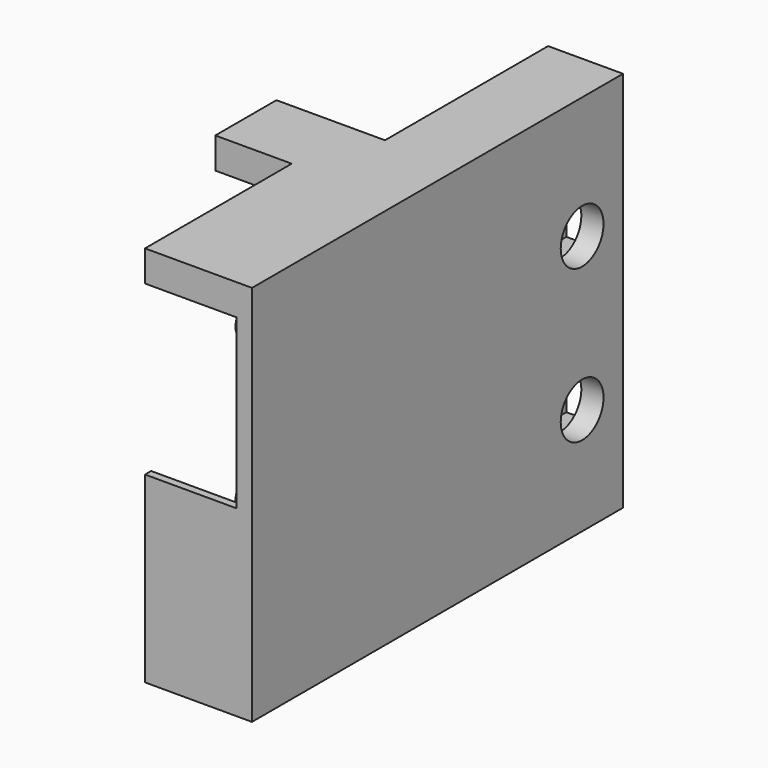
from build123d import *

# Parameters (mm, degrees)
F1_DEPTH  = 25
F2_R      = 1.75
F3_DEPTH  = 12.001
F4_W      = 2.25
F4_H      = 5.2
F5_DEPTH  = 8.2
F6_W      = 6.7676874548
F6_H      = 2
F6_W_2    = 4.3625808284
F6_H_2    = 16.5741704404
F7_DEPTH  = 25.001
F8_R      = 1.1
F9_DEPTH  = 11
F10_W     = 7.5431205352
F10_H     = 29.8151662209
F11_DEPTH = 12


with BuildPart() as f1:
    # F0 (on Top) → F1 (new body)
    with BuildSketch(Plane.XY):
        Polygon((11.3658751324, 15), (7.8658751324, 15), (7.8658751324, -17), (19.8658751324, -17), (19.8658751324, 15), (14.9658751324, 15), (14.9658751324, 0), (11.3658751324, 0), align=None)
    extrude(amount=F1_DEPTH)

    # F2 (on face) → F3 (cut, through all)
    with BuildSketch(Plane(origin=(7.8658751324, 0, 0), x_dir=(0, -1, 0), z_dir=(-1, 0, 0))):
        with Locations((-10, 17)):
            Circle(F2_R)
        with Locations((-10, 7)):
            Circle(F2_R)
    extrude(amount=-F3_DEPTH, mode=Mode.SUBTRACT)

    # F4 (on face) → F5 (cut)
    with BuildSketch(Plane(origin=(0, 15, 0), x_dir=(-1, 0, 0), z_dir=(0, 1, 0))):
        with Locations((-17.2876401603, 17)):
            Rectangle(F4_W, F4_H)
        with Locations((-17.2876401603, 6.9)):
            Rectangle(F4_W, F4_H)
    extrude(amount=-F5_DEPTH, mode=Mode.SUBTRACT)

    # F6 (on face) → F7 (cut, through all)
    with BuildSketch(Plane.XY.offset(25)):
        with Locations((17.0719223097, 14.3433604389)):
            Rectangle(F6_W, F6_H)
        with Locations((9.1845847182, 8.2870852202)):
            Rectangle(F6_W_2, F6_H_2)
    extrude(amount=-F7_DEPTH, mode=Mode.SUBTRACT)

    # F8 (on face) → F9 (cut)
    with BuildSketch(Plane(origin=(7.8658751324, 0, 0), x_dir=(0, -1, 0), z_dir=(-1, 0, 0))):
        Polygon((16.5, 22.9742758833), (0.5, 22.9742758833), (0.5, 2.4742758833), (16.5, 2.4742758833), (16.5, 11.9742758833), (19.0740358084, 11.9742758833), (19.0740358084, 22.9742758833), align=None)
        with Locations((8.5, 7.4742758833)):
            Circle(F8_R, mode=Mode.SUBTRACT)
        with Locations((8.5, 17.4742758833)):
            Circle(F8_R, mode=Mode.SUBTRACT)
    extrude(amount=-F9_DEPTH, mode=Mode.SUBTRACT)

    # F10 (on face) → F11 (cut)
    with BuildSketch(Plane.XZ.offset(17)):
        with Locations((9.0943148648, 13.0673133535)):
            Rectangle(F10_W, F10_H)
    extrude(amount=-F11_DEPTH, mode=Mode.SUBTRACT)


solid = f1.part
